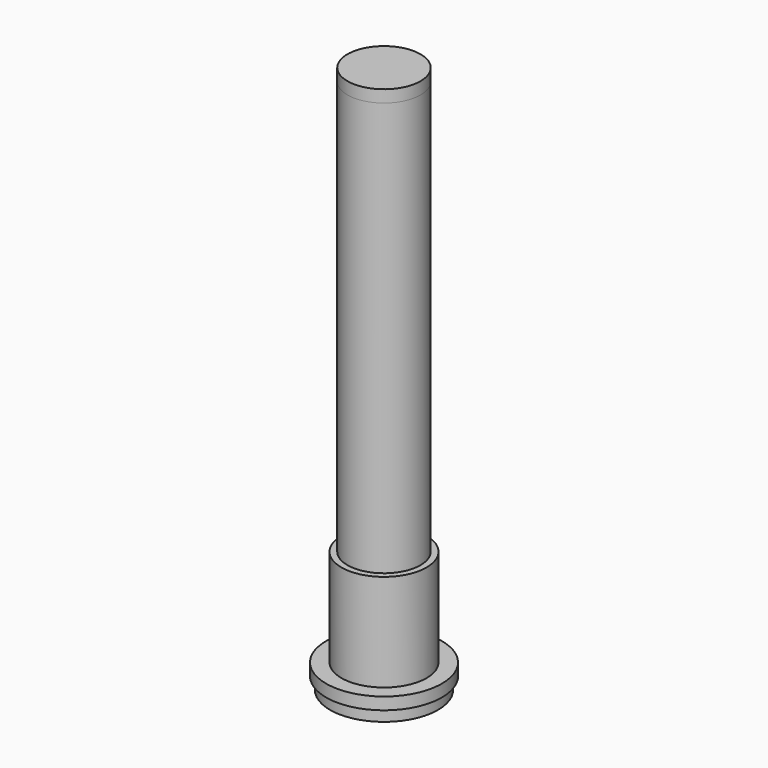
from build123d import *

# Parameters (mm, degrees)
F0_R      = 44.45
F0_R_2    = 32.512
F1_DEPTH  = 127
F2_SIZE   = 3.175
F3_R      = 36.5125
F3_R_2    = 31.3563
F4_DEPTH  = 355.6
F5_R      = 36.5125
F6_DEPTH  = 12.7
F7_R      = 38.1
F7_R_2    = 34.925
F8_DEPTH  = 558.8
F9_R      = 38.1
F10_DEPTH = 12.7
F13_R     = 36.5125
F13_R_2   = 31.3563
F14_DEPTH = 127
F15_R     = 36.5125
F16_DEPTH = 12.7


with BuildPart() as f1:
    # F0 (on Top) → F1 (new body)
    with BuildSketch(Plane.XY):
        Circle(F0_R)
        Circle(F0_R_2, mode=Mode.SUBTRACT)
    extrude(amount=F1_DEPTH)

    # F2
    f2_edges = [f1.edges().sort_by_distance(p)[0] for p in [
        (-32.512, 0, 127),
    ]]
    chamfer(f2_edges, length=F2_SIZE)


with BuildPart() as f4:
    # F3 (on Top) → F4 (new body)
    with BuildSketch(Plane.XY):
        Circle(F3_R)
        Circle(F3_R_2, mode=Mode.SUBTRACT)
    extrude(amount=F4_DEPTH)


with BuildPart() as f6:
    # F5 (on face) → F6 (new body)
    with BuildSketch(Plane.XY.offset(355.6)):
        Circle(F5_R)
    extrude(amount=F6_DEPTH)


with BuildPart() as f8:
    # F7 (on Top) → F8 (new body)
    with BuildSketch(Plane.XY):
        Circle(F7_R)
        Circle(F7_R_2, mode=Mode.SUBTRACT)
    extrude(amount=F8_DEPTH)


with BuildPart() as f10:
    # F9 (on face) → F10 (new body)
    with BuildSketch(Plane.XY.offset(558.8)):
        Circle(F9_R)
    extrude(amount=F10_DEPTH)


with BuildPart() as f12:
    # F11 (on Right) → F12 (revolve)
    with BuildSketch(Plane.YZ):
        Polygon((60.325, 25.4), (0, 25.4), (0, 0), (56.3245, 0), (56.3245, 12.7), (60.325, 12.7), align=None)
    revolve(axis=Axis((0, 0, 12.7), (0, 0, 1)))


with BuildPart() as f14:
    # F13 (on face) → F14 (new body)
    with BuildSketch(Plane.XY.offset(25.4)):
        Circle(F13_R)
        Circle(F13_R_2, mode=Mode.SUBTRACT)
    extrude(amount=F14_DEPTH)


with BuildPart() as f16:
    # F15 (on face) → F16 (new body)
    with BuildSketch(Plane.XY.offset(152.4)):
        Circle(F15_R)
    extrude(amount=F16_DEPTH)


solid = Compound([f1.part, f4.part, f6.part, f8.part, f10.part, f12.part, f14.part, f16.part])
